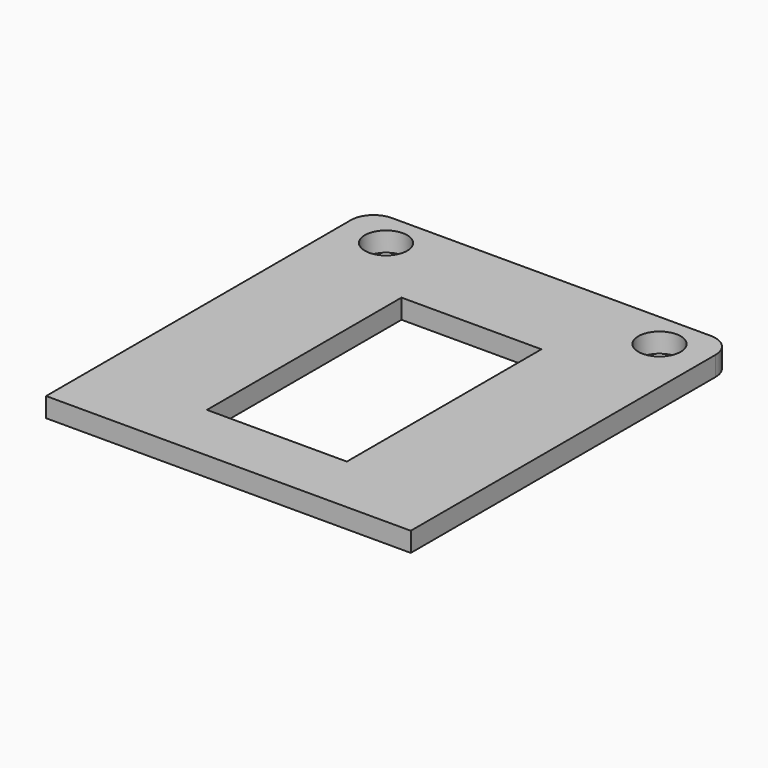
from build123d import *

# Parameters (mm, degrees)
F0_W     = 56
F0_H     = 62
F1_DEPTH = 3
F2_R     = 3.25
F3_DEPTH = 3.5
F4_R     = 3.5
F5_W     = 21.484168
F5_H     = 37.344906
F6_DEPTH = 3.5


with BuildPart() as f1:
    # F0 (on Top) → F1 (new body)
    with BuildSketch(Plane.XY):
        with Locations((31.62972, 17.355853)):
            Rectangle(F0_W, F0_H)
    extrude(amount=F1_DEPTH)

    # F2 (on Top) → F3 (cut)
    with BuildSketch(Plane.XY):
        with Locations((52.62972, 42.855853)):
            Circle(F2_R)
        with Locations((10.62972, 42.855853)):
            Circle(F2_R)
    extrude(amount=F3_DEPTH, mode=Mode.SUBTRACT)

    # F4
    f4_edges = [f1.edges().sort_by_distance(p)[0] for p in [
        (3.62972, 48.355853, 1.5),
        (59.62972, 48.355853, 1.5),
    ]]
    fillet(f4_edges, radius=F4_R)

    # F5 (on face) → F6 (cut)
    with BuildSketch(Plane.XY.offset(3)):
        with Locations((31.681261, 14.266232)):
            Rectangle(F5_W, F5_H)
    extrude(amount=-F6_DEPTH, mode=Mode.SUBTRACT)


solid = f1.part
